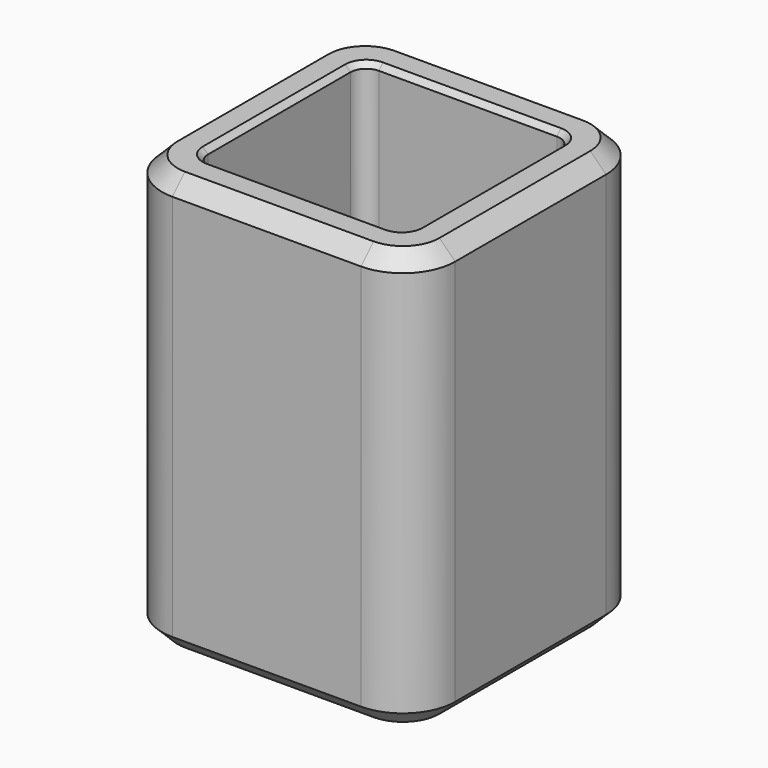
from build123d import *

# Parameters (mm, degrees)
F0_W     = 28
F0_H     = 28
F0_W_2   = 20
F0_H_2   = 20
F1_DEPTH = 40
F2_R     = 1.5
F3_R     = 5
F4_SIZE  = 1.5
F5_SIZE  = 0.5


with BuildPart() as f1:
    # F0 (on Top) → F1 (new body)
    with BuildSketch(Plane.XY):
        Rectangle(F0_W, F0_H)
        Rectangle(F0_W_2, F0_H_2, mode=Mode.SUBTRACT)
    extrude(amount=F1_DEPTH)

    # F2
    f2_edges = [f1.edges().sort_by_distance(p)[0] for p in [
        (-10, 10, 20),
        (10, 10, 20),
        (10, -10, 20),
        (-10, -10, 20),
    ]]
    fillet(f2_edges, radius=F2_R)

    # F3
    f3_edges = [f1.edges().sort_by_distance(p)[0] for p in [
        (-14, 14, 20),
        (-14, -14, 20),
        (14, -14, 20),
        (14, 14, 20),
    ]]
    fillet(f3_edges, radius=F3_R)

    # F4
    f4_edges = [f1.edges().sort_by_distance(p)[0] for p in [
        (-14, 0, 40),
        (-14, 0, 0),
    ]]
    chamfer(f4_edges, length=F4_SIZE)

    # F5
    f5_edges = [f1.edges().sort_by_distance(p)[0] for p in [
        (-10, 0, 40),
        (0, -10, 0),
    ]]
    chamfer(f5_edges, length=F5_SIZE)


solid = f1.part
